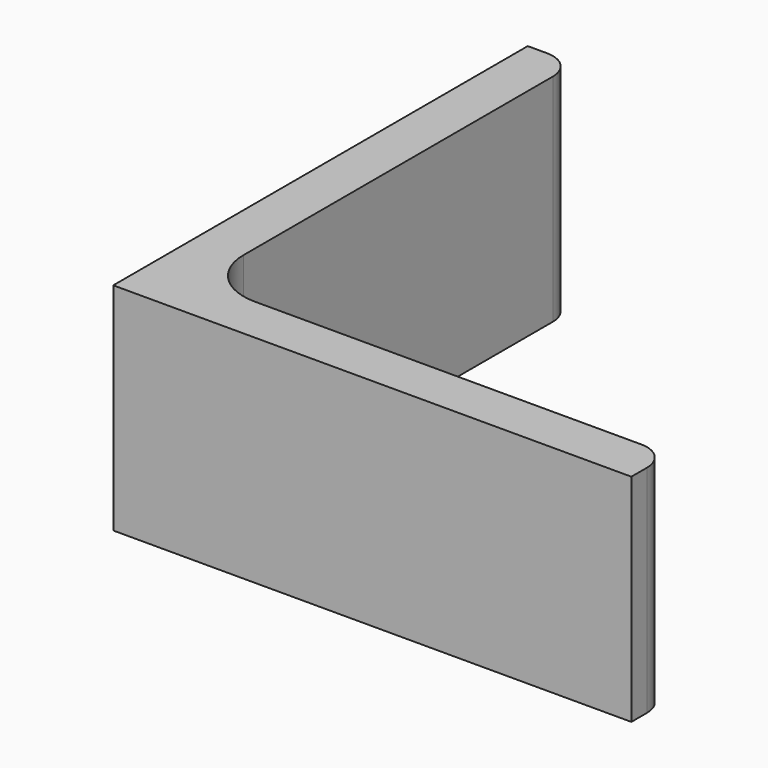
from build123d import *

# Parameters (mm, degrees)
EXTRUDE_DEPTH = 50


with BuildPart() as part:
    # Sketch → Extrude (new body)
    with BuildSketch(Plane.XY):
        with BuildLine():
            Line((0, 0), (120, 0))
            Line((120, 0), (120, 4.5))
            ThreePointArc((120, 4.5), (118.096194, 9.096194), (113.5, 11))
            Line((113.5, 11), (24, 11))
            ThreePointArc((11, 24), (14.807612, 14.807612), (24, 11))
            Line((11, 113.5), (11, 24))
            ThreePointArc((11, 113.5), (9.096194, 118.096194), (4.5, 120))
            Line((0, 120), (4.5, 120))
            Line((0, 0), (0, 120))
        make_face()
    extrude(amount=EXTRUDE_DEPTH)


solid = part.part
